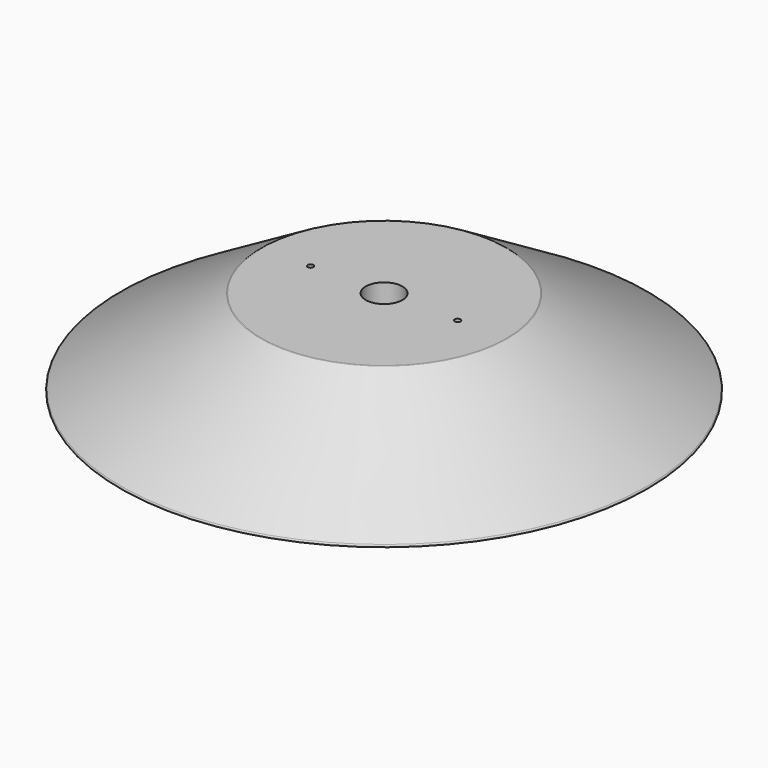
from build123d import *

# Parameters (mm, degrees)
F3_D     = 12.7
F4_W     = 60
F4_H     = 90
F4_R     = 6.35
F5_DEPTH = 10
F6_R     = 1
F7_DEPTH = 10
F8_R     = 1
F9_DEPTH = 10
F10_R    = 0.5


with BuildPart() as f1:
    # F0 (on Front) → F1 (revolve)
    with BuildSketch(Plane.XZ):
        Polygon((0, 30), (0, 0), (92.5, 0), (42.4, 30), align=None)
    revolve(axis=Axis((0, 0, 15), (0, 0, 1)))

    # F3 (through all)
    with Locations(Plane.XY.offset(30)):
        with Locations((0, 0)):
            Hole(F3_D / 2)

    # F4 (on face) → F5 (cut)
    with BuildSketch(Plane(origin=(0, 0, 0), x_dir=(1, 0, 0), z_dir=(0, 0, -1))):
        with Locations((0.233456, -0.599967)):
            Rectangle(F4_W, F4_H)
        Circle(F4_R, mode=Mode.SUBTRACT)
    extrude(amount=-F5_DEPTH, mode=Mode.SUBTRACT)

    # F6 (on face) → F7 (cut)
    with BuildSketch(Plane(origin=(0, 0, 0), x_dir=(1, 0, 0), z_dir=(0, 0, -1))):
        with Locations((-44.5, 0)):
            Circle(F6_R)
        with Locations((44.5, 0)):
            Circle(F6_R)
    extrude(amount=-F7_DEPTH, mode=Mode.SUBTRACT)

    # F8 (on face) → F9 (cut)
    with BuildSketch(Plane.XY.offset(30)):
        with Locations((-25.4, 0)):
            Circle(F8_R)
        with Locations((25.4, 0)):
            Circle(F8_R)
    extrude(amount=-F9_DEPTH, mode=Mode.SUBTRACT)

    # F10
    f10_edges = [f1.edges().sort_by_distance(p)[0] for p in [
        (-92.5, 0, 0),
        (-42.4, 0, 30),
    ]]
    fillet(f10_edges, radius=F10_R)


solid = f1.part
